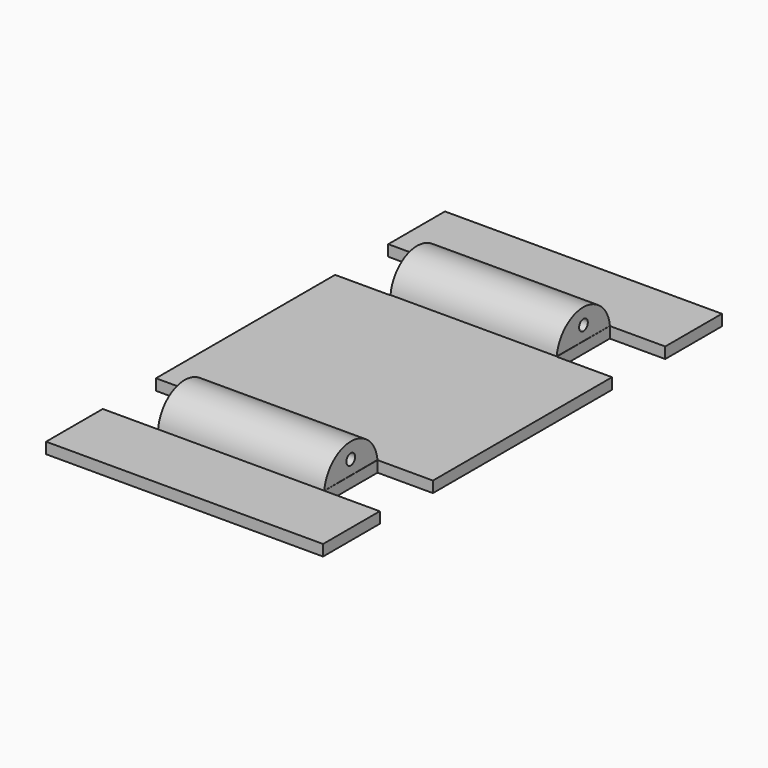
from build123d import *

# Parameters (mm, degrees)
F1_DEPTH = 0.5
F2_R     = 0.492701
F3_DEPTH = 7.5


with BuildPart() as f1:
    # F0 (on Top) → F1 (new body, symmetric)
    with BuildSketch(Plane.XY):
        Polygon((12.5, 16.104376), (12.5, 22.5), (-12.5, 22.5), (-12.5, 16.104376), (-7.5, 16.104376), (-7.5, 10.104376), (-12.5, 10.104376), (-12.5, -10.104376), (-7.5, -10.104376), (-7.5, -16.104376), (-12.5, -16.104376), (-12.5, -22.5), (12.5, -22.5), (12.5, -16.104376), (7.5, -16.104376), (7.5, -10.104376), (12.5, -10.104376), (12.5, 10.104376), (7.5, 10.104376), (7.5, 16.104376), align=None)
    extrude(amount=F1_DEPTH, both=True)


with BuildPart() as f3:
    # F2 (on Right) → F3 (new body, symmetric)
    with BuildSketch(Plane.YZ):
        with BuildLine():
            Line((10.110452, 0.521282), (16.11126, 0.50916))
            ThreePointArc((16.11126, 0.50916), (13.116306, 3.212707), (10.110452, 0.521282))
        make_face()
        with Locations((13.130261, 1.789711)):
            Circle(F2_R, mode=Mode.SUBTRACT)
        with BuildLine():
            ThreePointArc((-10.110452, 0.521282), (-13.116306, 3.212707), (-16.11126, 0.50916))
            Line((-16.11126, 0.50916), (-10.110452, 0.521282))
        make_face()
        with Locations((-13.130261, 1.789711)):
            Circle(F2_R, mode=Mode.SUBTRACT)
    extrude(amount=F3_DEPTH, both=True)


solid = Compound([f1.part, f3.part])
